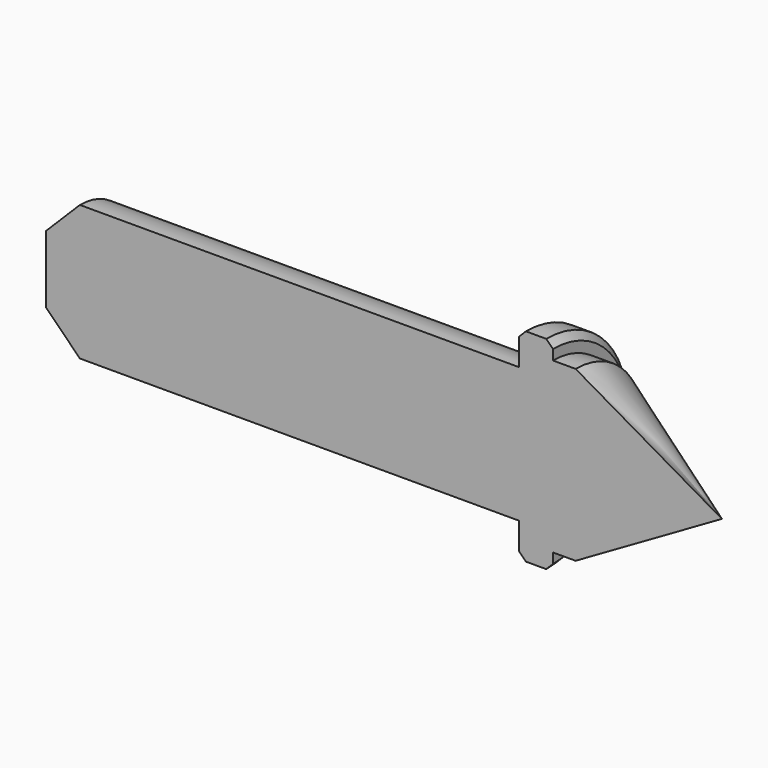
from build123d import *

# Parameters (mm, degrees)
F2_SIZE  = 1
F3_SIZE  = 5
F5_W     = 154.381274
F5_H     = 110.501114
F6_DEPTH = 25


with BuildPart() as f1:
    # F0 (on Front) → F1 (revolve)
    with BuildSketch(Plane.XZ):
        Polygon((95, 10), (25, 10), (25, 0), (125, 0), (103.349365, 12.5), (100, 12.5), (100, 15), (95, 15), align=None)
    revolve(axis=Axis((75, 0, 0), (1, 0, 0)))

    # F2
    f2_edges = [f1.edges().sort_by_distance(p)[0] for p in [
        (100, 0, -15),
        (95, 0, -15),
    ]]
    chamfer(f2_edges, length=F2_SIZE)

    # F3
    f3_edges = [f1.edges().sort_by_distance(p)[0] for p in [
        (25, 0, -10),
    ]]
    chamfer(f3_edges, length=F3_SIZE)

    # F5 (on offset) → F6 (cut)
    with BuildSketch(Plane.XZ.offset(25)):
        with Locations((66.994385, 19.205375)):
            Rectangle(F5_W, F5_H)
    extrude(amount=-F6_DEPTH, mode=Mode.SUBTRACT)


solid = f1.part
